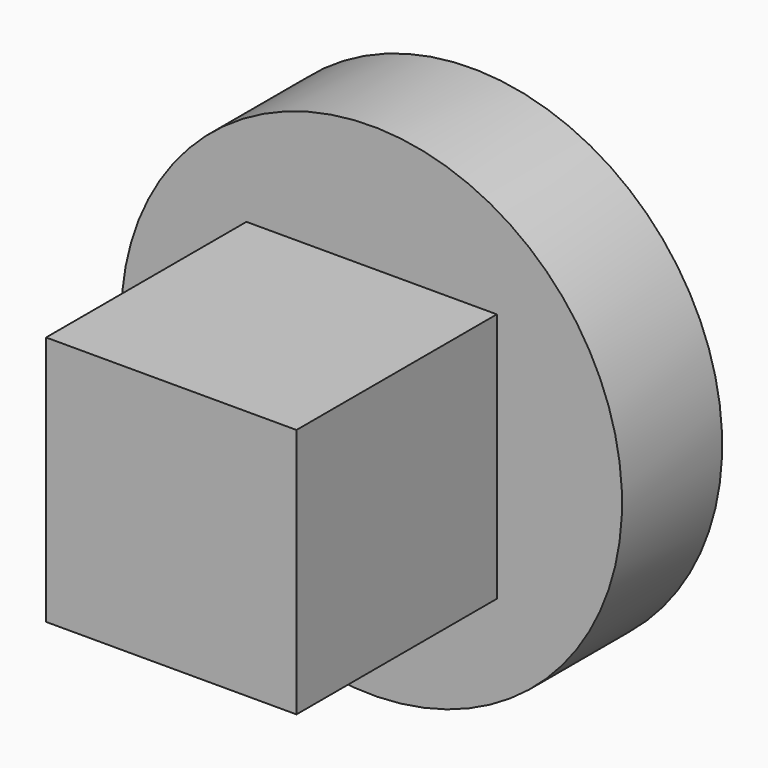
from build123d import *

# Parameters (mm, degrees)
F0_W     = 50
F0_H     = 50
F1_DEPTH = 25
F2_R     = 50
F3_DEPTH = 25


with BuildPart() as f1:
    # F0 (on Top) → F1 (new body, symmetric)
    with BuildSketch(Plane.XY):
        Rectangle(F0_W, F0_H)
    extrude(amount=F1_DEPTH, both=True)


with BuildPart() as f3:
    # F2 (on face) → F3 (new body)
    with BuildSketch(Plane(origin=(0, 25, 0), x_dir=(-1, 0, 0), z_dir=(0, 1, 0))):
        Circle(F2_R)
    extrude(amount=F3_DEPTH)


solid = Compound([f1.part, f3.part])
